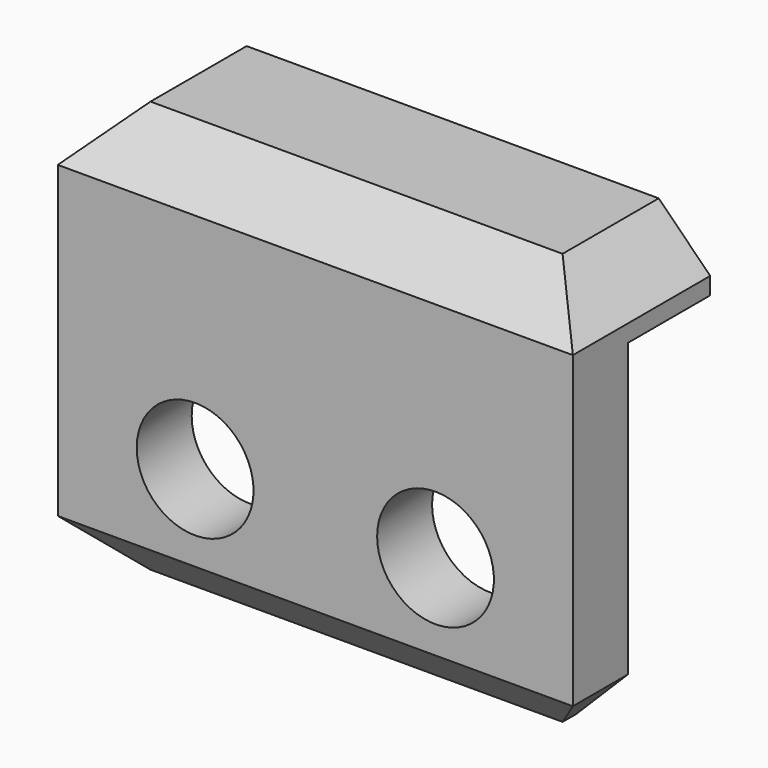
from build123d import *

# Parameters (mm, degrees)
F1_DEPTH = 15
F3_D     = 3.4
F4_SIZE  = 1.5


with BuildPart() as f1:
    # F0 (on Right) → F1 (new body)
    with BuildSketch(Plane.YZ):
        Polygon((0, -10), (0, 0), (3, 0), (3, 2), (-2, 2), (-2, -10), align=None)
    extrude(amount=F1_DEPTH)

    # F3 (through all)
    with Locations(Plane.XZ.offset(2)):
        with Locations((4, -6), (11, -6)):
            Hole(F3_D / 2)

    # F4
    f4_edges = [f1.edges().sort_by_distance(p)[0] for p in [
        (0, 0.5, 2),
        (15, 0.5, 2),
        (0, -1, -10),
        (15, -1, -10),
        (7.5, -2, 2),
        (7.5, -2, -10),
    ]]
    chamfer(f4_edges, length=F4_SIZE)


solid = f1.part
